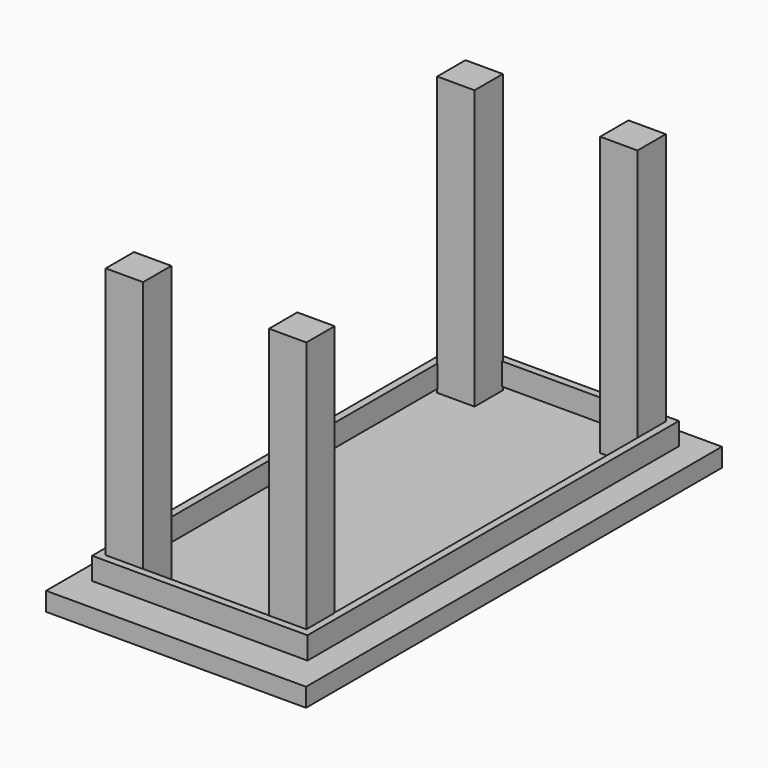
from build123d import *

# Parameters (mm, degrees)
SKETCH002_W      = 10.062535
SKETCH002_H      = 9.518799
EXTRUDE003_DEPTH = 80
SKETCH001_W      = 58
SKETCH001_H      = 125
SKETCH001_W_2    = 54
SKETCH001_H_2    = 121
EXTRUDE002_DEPTH = 6
SKETCH_W         = 70
SKETCH_H         = 140
EXTRUDE_DEPTH    = 5


with BuildPart() as legs:
    # Sketch002 → Extrude003 (new body)
    with BuildSketch(Plane.XY):
        with Locations((12.953979, 126.509788)):
            Rectangle(SKETCH002_W, SKETCH002_H)
        with Locations((56.843384, 126.509788)):
            Rectangle(SKETCH002_W, SKETCH002_H)
        with Locations((57.084308, 14.733897)):
            Rectangle(SKETCH002_W, SKETCH002_H)
        with Locations((13.107931, 14.733897)):
            Rectangle(SKETCH002_W, SKETCH002_H)
    extrude(amount=EXTRUDE003_DEPTH)


with BuildPart() as table_support:
    # Sketch001 → Extrude002 (new body)
    with BuildSketch(Plane.XY):
        with Locations((35, 70.5)):
            Rectangle(SKETCH001_W, SKETCH001_H)
        with Locations((35, 70.5)):
            Rectangle(SKETCH001_W_2, SKETCH001_H_2, mode=Mode.SUBTRACT)
    extrude(amount=EXTRUDE002_DEPTH)


with BuildPart() as table_support_1:
    # Extrude002 placement: moved
    add(table_support.part.moved(Location((0, 0, 6))))


with BuildPart() as fusion002:
    # Sketch → Extrude (new body)
    with BuildSketch(Plane.XY):
        with Locations((35, 70)):
            Rectangle(SKETCH_W, SKETCH_H)
    extrude(amount=EXTRUDE_DEPTH)

    # Fusion: union table_support
    add(table_support_1.part)

    # Fusion002: union legs
    add(legs.part)


solid = fusion002.part
